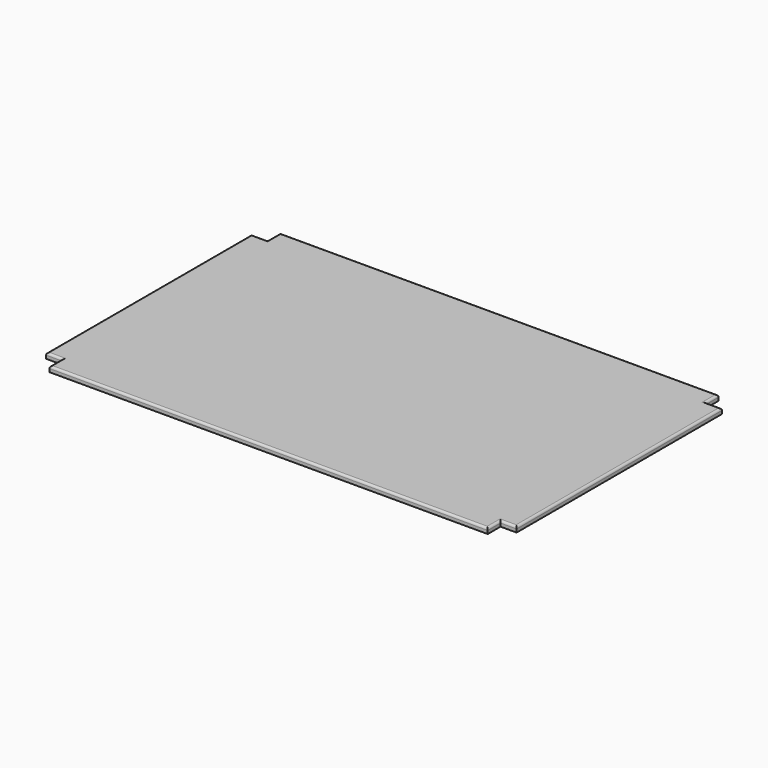
from build123d import *

# Parameters (mm, degrees)
F1_DEPTH = 12.7
F2_R     = 5.08


with BuildPart() as f1:
    # F0 (on Top) → F1 (new body)
    with BuildSketch(Plane.XY):
        Polygon((-520.7, -342.9), (520.7, -342.9), (520.7, -304.8), (558.8, -304.8), (558.8, 304.8), (520.7, 304.8), (520.7, 342.9), (-520.7, 342.9), (-520.7, 304.8), (-558.8, 304.8), (-558.8, -304.8), (-520.7, -304.8), align=None)
    extrude(amount=F1_DEPTH)

    # F2
    f2_edges = [f1.edges().sort_by_distance(p)[0] for p in [
        (0, -342.9, 12.7),
        (520.7, -323.85, 12.7),
        (539.75, -304.8, 12.7),
        (558.8, 0, 12.7),
        (539.75, 304.8, 12.7),
        (520.7, 323.85, 12.7),
        (0, 342.9, 12.7),
        (-520.7, 323.85, 12.7),
        (-539.75, 304.8, 12.7),
        (-558.8, 0, 12.7),
        (-539.75, -304.8, 12.7),
        (-520.7, -323.85, 12.7),
    ]]
    fillet(f2_edges, radius=F2_R)


solid = f1.part
